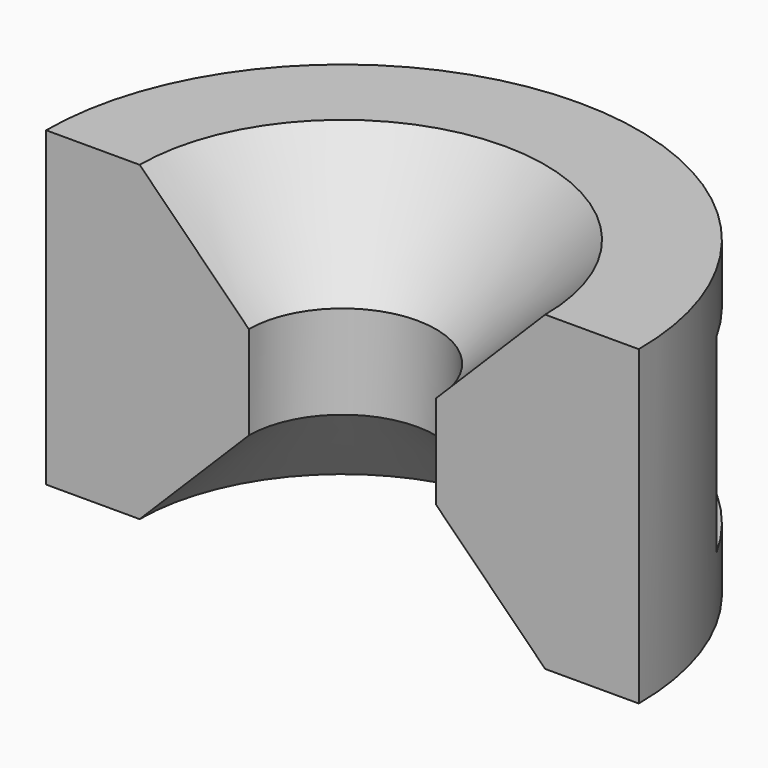
from build123d import *

# Parameters (mm, degrees)
SKETCH009_W         = 30.5
SKETCH009_H         = 187.185136
EXTRUDE005_DEPTH    = 40
REVOLUTION001_ANGLE = 180


with BuildPart() as extrude005:
    # Sketch009 → Extrude005 (new body)
    with BuildSketch(Plane(origin=(22, 23, 10), x_dir=(0, 0, -1), z_dir=(0, 1, 0))):
        with Locations((-15.25, 27)):
            Rectangle(SKETCH009_W, SKETCH009_H)
    extrude(amount=EXTRUDE005_DEPTH)


with BuildPart() as cut004:
    # Sketch002 → Revolution001 (revolve)
    with BuildSketch(Plane.XZ):
        Polygon((32.5, 50), (15, 32.5), (15, 17.5), (32.5, 0), (47.5, 0), (47.5, 50), align=None)
    revolve(axis=Axis((0, 0, 0), (0, 0, 1)), revolution_arc=REVOLUTION001_ANGLE)

    # Cut004: cut Extrude005
    add(extrude005.part, mode=Mode.SUBTRACT)


solid = cut004.part
